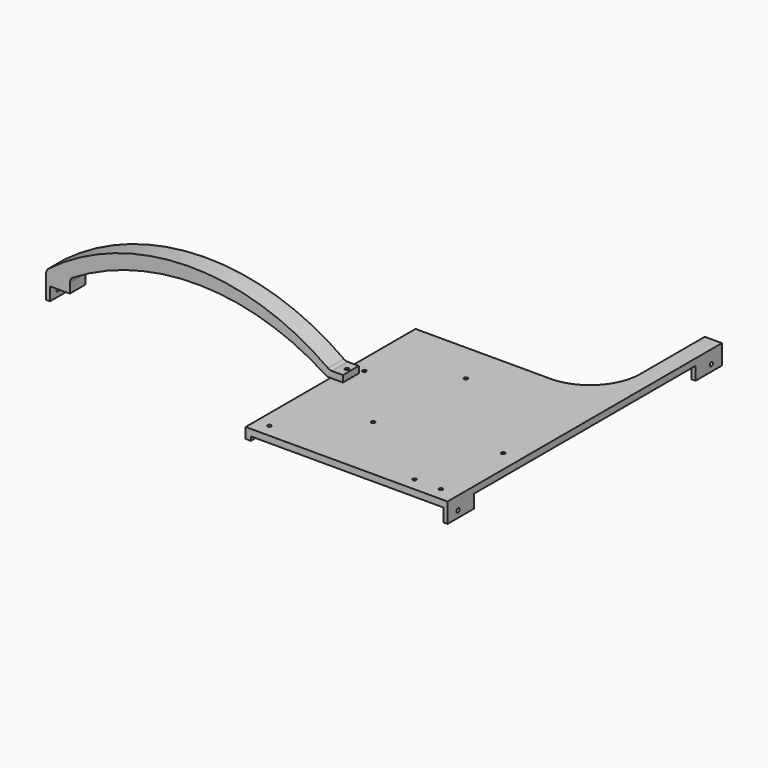
from build123d import *

# Parameters (mm, degrees)
F0_R      = 1.4
F1_DEPTH  = 5
F2_W      = 3
F2_H      = 260
F2_W_2    = 4
F2_H_2    = 20
F2_W_3    = 20
F2_H_3    = 4
F3_DEPTH  = 5
F4_DEPTH  = 10
F5_R      = 1.5
F5_W      = 210
F5_H      = 10
F6_DEPTH  = 3
F7_DEPTH  = 3
F9_DEPTH  = 15
F10_R     = 1.5
F11_DEPTH = 3
F12_R     = 1.5
F13_DEPTH = 5
F14_R     = 5


with BuildPart() as f1:
    # F0 (on Top) → F1 (new body)
    with BuildSketch(Plane.XY):
        with BuildLine():
            Line((260.305044, -90.926297), (260.305044, 169.073703))
            Line((260.305044, 169.073703), (250.305044, 169.073703))
            Line((250.305044, 169.073703), (250.305044, 107.939899))
            ThreePointArc((250.305044, 107.939899), (238.367347, 80.282512), (210.053265, 69.99891))
            Line((210.053265, 69.99891), (110.305044, 69.99891))
            Line((110.305044, 69.99891), (110.305044, -90.926297))
            Line((110.305044, -90.926297), (260.305044, -90.926297))
        make_face()
        with Locations((120.305044, -80.926297)):
            Circle(F0_R, mode=Mode.SUBTRACT)
        with Locations((165.305044, -38.926297)):
            Circle(F0_R, mode=Mode.SUBTRACT)
        with Locations((120.305044, 9.073703)):
            Circle(F0_R, mode=Mode.SUBTRACT)
        with Locations((173.305044, 39.073703)):
            Circle(F0_R, mode=Mode.SUBTRACT)
        with Locations((230.305044, -80.926297)):
            Circle(F0_R, mode=Mode.SUBTRACT)
        with Locations((250.305044, -80.926297)):
            Circle(F0_R, mode=Mode.SUBTRACT)
        with Locations((250.305044, -21.926297)):
            Circle(F0_R, mode=Mode.SUBTRACT)
    extrude(amount=F1_DEPTH)

    # F2 (on Top) → F3 (join)
    with BuildSketch(Plane.XY):
        with Locations((261.805044, 39.073703)):
            Rectangle(F2_W, F2_H)
        with Locations((112.305044, -80.926297)):
            Rectangle(F2_W_2, F2_H_2)
        with Locations((120.305044, 67.99891)):
            Rectangle(F2_W_3, F2_H_3)
    extrude(amount=F3_DEPTH)

    # F2 (on Top) → F4 (join)
    with BuildSketch(Plane.XY):
        with Locations((261.805044, 39.073703)):
            Rectangle(F2_W, F2_H)
    extrude(amount=-F4_DEPTH)

    # F5 (on face) → F6 (cut)
    with BuildSketch(Plane.YZ.offset(263.305044)):
        with Locations((-80.926297, -5)):
            Circle(F5_R)
        with Locations((159.073703, -5)):
            Circle(F5_R)
        with Locations((39.073703, -5)):
            Rectangle(F5_W, F5_H)
    extrude(amount=-F6_DEPTH, mode=Mode.SUBTRACT)

    # F2 (on Top) → F7 (join)
    with BuildSketch(Plane.XY):
        with Locations((112.305044, -80.926297)):
            Rectangle(F2_W_2, F2_H_2)
        with Locations((120.305044, 67.99891)):
            Rectangle(F2_W_3, F2_H_3)
    extrude(amount=-F7_DEPTH)


with BuildPart() as f9:
    # F8 (on Front) → F9 (new body)
    with BuildSketch(Plane.XZ):
        with BuildLine():
            ThreePointArc((113.305044, 13), (5.301575, 47.581895), (-101.694956, 10))
            Line((-101.694956, 10), (-101.694956, -10))
            Line((-101.694956, -10), (-98.694956, -10))
            Line((-98.694956, -10), (-98.694956, 0))
            Line((-98.694956, 0), (-83.694956, 0))
            Line((-83.694956, 0), (-83.694956, 10))
            ThreePointArc((-83.694956, 10), (14.099351, 37.694988), (111.305044, 8))
            Line((111.305044, 8), (123.305044, 8))
            Line((123.305044, 8), (123.305044, 13))
            Line((123.305044, 13), (113.305044, 13))
        make_face()
    extrude(amount=F9_DEPTH)

    # F10 (on face) → F11 (cut)
    with BuildSketch(Plane(origin=(-101.694956, 0, 0), x_dir=(0, -1, 0), z_dir=(-1, 0, 0))):
        with Locations((7.5, -5)):
            Circle(F10_R)
    extrude(amount=-F11_DEPTH, mode=Mode.SUBTRACT)

    # F12 (on face) → F13 (cut)
    with BuildSketch(Plane.XY.offset(13)):
        with Locations((120.305044, -7.5)):
            Circle(F12_R)
    extrude(amount=-F13_DEPTH, mode=Mode.SUBTRACT)

    # F14
    f14_edges = [f9.edges().sort_by_distance(p)[0] for p in [
        (-83.694956, -7.5, 10),
        (113.305044, -7.5, 13),
        (111.305044, -7.5, 8),
        (-101.694956, -7.5, 10),
    ]]
    fillet(f14_edges, radius=F14_R)


solid = Compound([f1.part, f9.part])
